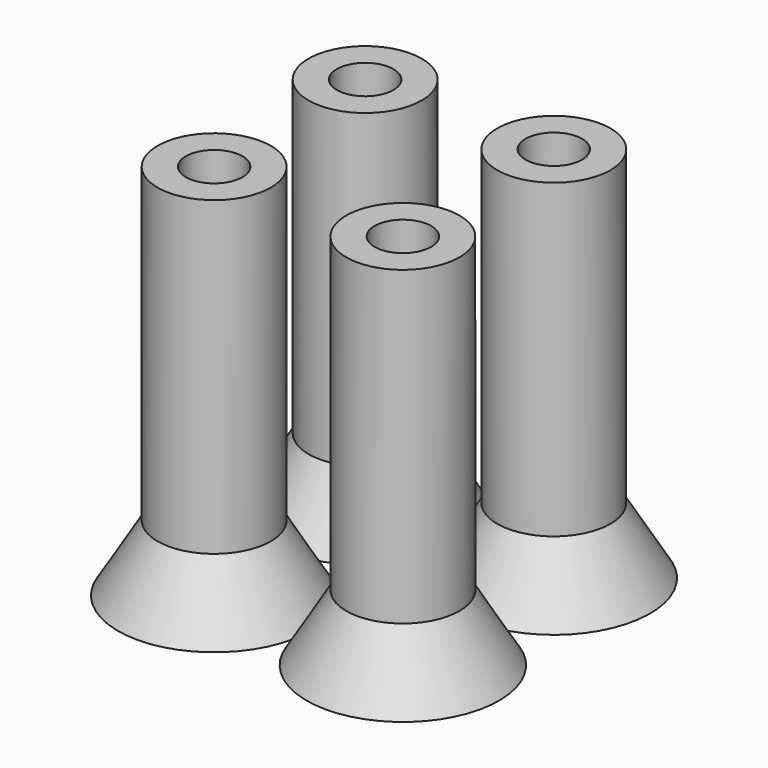
from build123d import *

# Parameters (mm, degrees)
F0_R     = 3
F0_R_2   = 1.5
F1_DEPTH = 20


with BuildPart() as f1:
    # F0 (on Top) → F1 (new body)
    with BuildSketch(Plane.XY):
        Circle(F0_R)
        Circle(F0_R_2, mode=Mode.SUBTRACT)
        with Locations((-10, 0)):
            Circle(F0_R)
        with Locations((-10, 0)):
            Circle(F0_R_2, mode=Mode.SUBTRACT)
        with Locations((-10, -10)):
            Circle(F0_R)
        with Locations((-10, -10)):
            Circle(F0_R_2, mode=Mode.SUBTRACT)
        with Locations((0, -10)):
            Circle(F0_R)
        with Locations((0, -10)):
            Circle(F0_R_2, mode=Mode.SUBTRACT)
    extrude(amount=F1_DEPTH)

    # F2 (on Right) → F3 (revolve)
    with BuildSketch(Plane.YZ):
        Polygon((0, 3.5), (0, 0), (5.1, 0), (3, 3.5), align=None)
    revolve(axis=Axis((0, 0, 1.75), (0, 0, 1)))

    # F2 (on Right) → F4 (revolve)
    with BuildSketch(Plane.YZ):
        Polygon((-15.1, 0), (-10, 0), (-10, 3.5), (-13, 3.5), align=None)
    revolve(axis=Axis((0, -10, 1.75), (0, 0, 1)))

    # F6 (on offset) → F7 (revolve)
    with BuildSketch(Plane.YZ.offset(-10)):
        Polygon((0, 3.5), (0, 0), (5.1, 0), (3, 3.5), align=None)
    revolve(axis=Axis((-10, 0, 1.75), (0, 0, 1)))

    # F6 (on offset) → F8 (revolve)
    with BuildSketch(Plane.YZ.offset(-10)):
        Polygon((-15.1, 0), (-10, 0), (-10, 3.5), (-13, 3.5), align=None)
    revolve(axis=Axis((-10, -10, 1.75), (0, 0, 1)))


solid = f1.part
